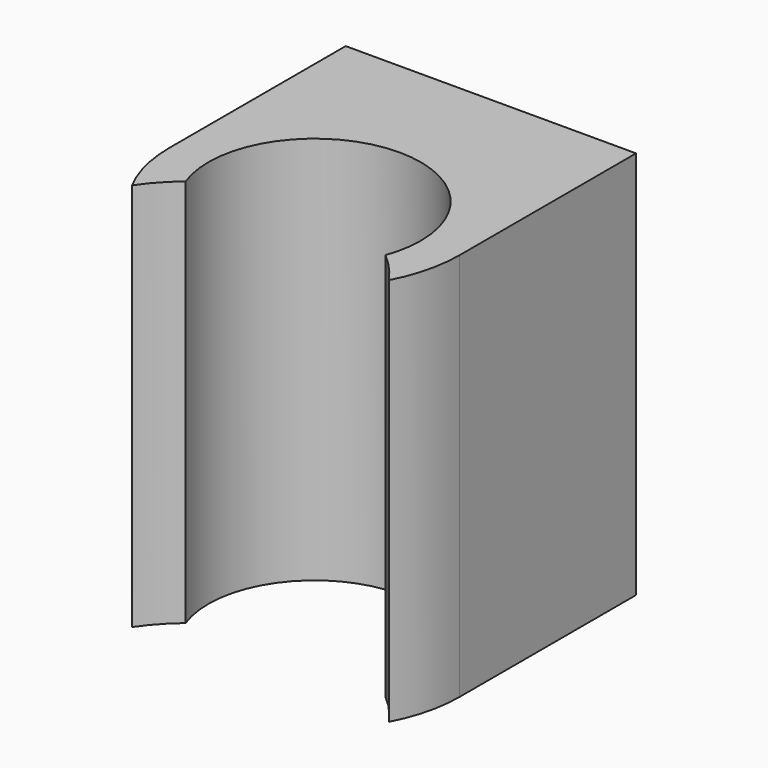
from build123d import *

# Parameters (mm, degrees)
CYLINDER098_R     = 6
CYLINDER098_DEPTH = 15
CYLINDER096_R     = 4.1
CYLINDER096_DEPTH = 15
BOX053_W          = 11.2
BOX053_H          = 8.5
BOX053_DEPTH      = 15
CYLINDER097_R     = 5.6
CYLINDER097_DEPTH = 15


with BuildPart() as zylinder089:
    # Cylinder098 → Cylinder098 (new body)
    with BuildSketch(Plane(origin=(0, -6, 0), x_dir=(1, 0, 0), z_dir=(0, 0, 1))):
        Circle(CYLINDER098_R)
    extrude(amount=CYLINDER098_DEPTH)


with BuildPart() as zylinder087:
    # Cylinder096 → Cylinder096 (new body)
    with BuildSketch(Plane.XY):
        Circle(CYLINDER096_R)
    extrude(amount=CYLINDER096_DEPTH)


with BuildPart() as obj1:
    # Box053 → Box053 (new body)
    with BuildSketch(Plane(origin=(-5.6, 0, 0), x_dir=(1, 0, 0), z_dir=(0, 0, 1))):
        with Locations((5.6, 4.25)):
            Rectangle(BOX053_W, BOX053_H)
    extrude(amount=BOX053_DEPTH)


with BuildPart() as cut011004014002011:
    # Cylinder097 → Cylinder097 (new body)
    with BuildSketch(Plane.XY):
        Circle(CYLINDER097_R)
    extrude(amount=CYLINDER097_DEPTH)

    # Fusion026038: union obj1
    add(obj1.part)

    # Cut011004014002010: cut Zylinder087
    add(zylinder087.part, mode=Mode.SUBTRACT)

    # Cut011004014002011: cut Zylinder089
    add(zylinder089.part, mode=Mode.SUBTRACT)


solid = cut011004014002011.part
